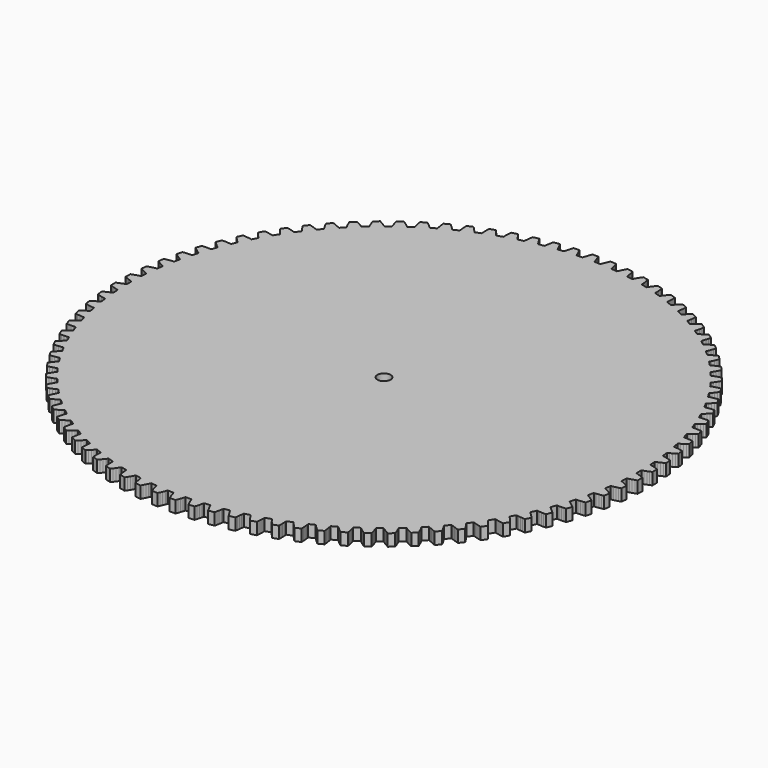
from build123d import *

# Parameters (mm, degrees)
F0_R     = 5
F1_DEPTH = 9


with BuildPart() as f1:
    # F0 (on Top) → F1 (new body)
    with BuildSketch(Plane.XY):
        Polygon((83.623727, 84.245683), (83.630127, 88.804583), (84.041127, 88.937583), (84.452027, 89.073883), (85.273427, 89.356283), (86.914527, 89.958683), (88.553027, 90.609183), (90.188527, 91.305483), (90.041027, 95.706583), (88.362527, 96.291783), (86.684127, 96.831083), (85.006427, 97.322283), (84.167927, 97.548983), (83.748827, 97.657483), (83.329827, 97.762583), (83.018127, 102.310883), (83.418927, 102.472183), (83.819327, 102.636783), (84.619027, 102.975783), (86.214027, 103.691283), (87.803127, 104.454383), (89.386127, 105.263083), (88.931927, 109.643283), (87.216727, 110.109983), (85.504827, 110.530783), (83.796927, 110.903783), (82.944627, 111.071483), (82.519027, 111.150483), (82.093727, 111.226083), (81.465527, 115.741483), (81.854027, 115.930383), (82.242027, 116.122583), (83.016127, 116.516483), (84.557327, 117.341483), (86.089327, 118.213683), (87.612027, 119.130783), (86.853427, 123.468583), (85.109827, 123.814483), (83.372727, 124.114883), (81.643027, 124.367783), (80.781127, 124.475683), (80.351027, 124.524783), (79.921427, 124.570583), (78.979827, 129.031183), (79.354227, 129.246683), (79.727827, 129.465383), (80.472527, 129.912383), (81.952527, 130.842883), (83.419927, 131.819783), (84.874927, 132.840883), (83.815627, 137.115183), (82.052127, 137.338683), (80.298327, 137.517183), (78.555127, 137.648783), (77.687827, 137.696283), (77.255327, 137.715283), (76.823627, 137.730983), (75.573127, 142.114983), (75.931527, 142.356183), (76.289027, 142.600383), (77.000727, 143.098283), (78.412227, 144.129683), (79.807927, 145.206583), (81.188127, 146.326783), (79.833227, 150.516783), (78.058427, 150.616583), (76.296427, 150.672383), (74.548327, 150.682083), (73.679827, 150.668883), (73.247027, 150.657683), (72.815327, 150.643283), (71.262027, 154.929383), (71.602827, 155.194883), (71.942327, 155.463583), (72.617627, 156.009783), (73.953627, 157.137183), (75.270827, 158.308883), (76.569627, 159.522583), (74.925727, 163.607783), (73.148227, 163.583683), (71.386627, 163.516383), (69.642127, 163.404083), (68.776627, 163.330383), (68.345727, 163.288983), (67.916027, 163.244483), (66.067627, 167.411783), (66.389027, 167.700483), (66.708927, 167.992083), (67.344427, 168.584183), (68.598627, 169.801983), (69.830927, 171.062683), (71.041827, 172.363983), (69.116927, 176.324683), (67.345527, 176.176583), (65.592927, 175.986583), (63.860427, 175.752883), (63.002227, 175.618983), (62.575227, 175.547583), (62.149727, 175.473283), (60.015027, 179.501483), (60.315527, 179.811883), (60.614327, 180.125083), (61.207027, 180.760083), (62.373227, 182.062383), (63.514527, 183.405983), (64.631727, 184.788583), (62.435227, 188.605283), (60.678427, 188.333983), (58.943427, 188.022183), (57.231427, 187.668283), (56.384627, 187.474783), (55.963627, 187.373883), (55.544327, 187.269983), (53.133927, 191.139483), (53.412027, 191.470083), (53.688227, 191.803383), (54.235227, 192.478183), (55.307627, 193.858683), (56.352527, 195.278583), (57.370527, 196.735783), (54.913127, 200.389983), (53.179627, 199.996783), (51.470527, 199.564683), (49.787427, 199.092183), (48.956127, 198.840183), (48.543227, 198.710083), (48.132227, 198.577183), (45.457727, 202.269183), (45.712127, 202.618283), (45.964427, 202.970083), (46.462927, 203.681383), (47.436527, 205.133383), (48.379727, 206.622683), (49.293627, 208.147283), (46.587327, 211.621183), (44.885427, 211.108083), (43.210627, 210.557783), (41.564627, 209.969083), (40.753027, 209.659583), (40.350127, 209.501083), (39.949327, 209.339883), (37.023827, 212.836183), (37.253227, 213.202283), (37.480427, 213.570883), (37.928127, 214.315183), (38.798027, 215.831483), (39.635027, 217.382983), (40.440327, 218.967683), (37.498327, 222.244283), (35.836427, 221.613683), (34.204027, 220.947983), (32.603127, 220.245783), (31.815027, 219.880483), (31.424227, 219.694283), (31.035727, 219.505483), (27.873427, 222.789283), (28.076727, 223.170383), (28.277627, 223.553883), (28.672327, 224.327683), (29.434327, 225.900983), (30.161127, 227.507083), (30.853927, 229.144083), (27.690527, 232.207483), (26.076527, 231.462483), (24.494627, 230.684583), (22.946527, 229.872383), (22.185927, 229.453083), (21.809027, 229.239983), (21.434627, 229.024483), (18.051027, 232.079783), (18.227227, 232.474183), (18.400827, 232.870683), (18.740627, 233.670083), (19.391027, 235.292783), (20.004027, 236.945683), (20.580927, 238.626983), (17.211527, 241.462283), (15.653527, 240.606483), (14.129727, 239.720083), (12.642027, 238.801983), (11.912527, 238.330583), (11.551427, 238.091683), (11.192927, 237.850683), (7.604427, 240.662383), (7.752627, 241.068183), (7.898227, 241.475883), (8.181427, 242.296983), (8.717027, 243.961083), (9.213227, 245.652683), (9.671427, 247.370183), (6.112427, 249.963583), (4.617927, 249.001183), (3.159727, 248.010583), (1.739727, 246.990983), (1.044827, 246.469783), (0.701327, 246.206283), (0.360527, 245.940883), (-3.415473, 248.495483), (-3.295873, 248.910583), (-3.179073, 249.327483), (-2.953873, 250.166283), (-2.535573, 251.863683), (-2.158673, 253.585783), (-1.821273, 255.331083), (-5.552573, 257.669883), (-6.976273, 256.605583), (-8.361873, 255.515683), (-9.707273, 254.399483), (-10.364173, 253.831083), (-10.688473, 253.544383), (-11.009873, 253.255783), (-14.954873, 255.540683), (-14.864473, 255.963183), (-14.777073, 256.387183), (-14.610873, 257.239683), (-14.312073, 258.962183), (-14.056173, 260.706383), (-13.841473, 262.470883), (-17.726673, 264.543683), (-19.072773, 263.382683), (-20.378973, 262.198783), (-21.643173, 260.991483), (-22.258773, 260.378683), (-22.562273, 260.069983), (-22.862873, 259.759683), (-26.957573, 261.763883), (-26.896873, 262.191583), (-26.839273, 262.620683), (-26.732973, 263.482683), (-26.555073, 265.221783), (-26.421473, 266.979583), (-26.330273, 268.754883), (-30.350673, 270.551583), (-31.612473, 269.299483), (-32.832973, 268.027383), (-34.009873, 266.734783), (-34.581173, 266.080583), (-34.862473, 265.751383), (-35.140673, 265.420883), (-39.365173, 267.134583), (-39.334473, 267.565483), (-39.306973, 267.997583), (-39.261073, 268.864883), (-39.204873, 270.612183), (-39.194173, 272.374983), (-39.227073, 274.152283), (-43.363073, 275.664183), (-44.534373, 274.327183), (-45.663173, 272.972983), (-46.747073, 271.601483), (-47.271373, 270.908983), (-47.528973, 270.560983), (-47.783373, 270.211883), (-52.117173, 271.626683), (-52.116673, 272.058683), (-52.119273, 272.491683), (-52.134073, 273.360083), (-52.199873, 275.106983), (-52.312173, 276.866283), (-52.468973, 278.636983), (-56.700273, 279.856683), (-57.775573, 278.441183), (-58.807073, 277.011583), (-59.792673, 275.567783), (-60.267373, 274.840383), (-60.500073, 274.475283), (-60.729573, 274.109283), (-65.151473, 275.218383), (-65.181073, 275.649383), (-65.213973, 276.080983), (-65.289273, 276.946383), (-65.476773, 278.684383), (-65.711473, 280.431583), (-65.991473, 282.186983), (-70.297573, 283.108583), (-71.271473, 281.621483), (-72.200773, 280.123483), (-73.083173, 278.614383), (-73.506073, 277.855683), (-73.712673, 277.475283), (-73.916073, 277.094183), (-78.404573, 277.892083), (-78.464173, 278.319883), (-78.527073, 278.748283), (-78.662573, 279.606183), (-78.970873, 281.326983), (-79.326873, 283.053483), (-79.728573, 284.785083), (-84.088573, 285.404083), (-84.956273, 283.852683), (-85.778873, 282.293483), (-86.553873, 280.726483), (-86.922773, 279.940183), (-87.102373, 279.546283), (-87.278673, 279.151883), (-91.811973, 279.634683), (-91.901173, 280.057383), (-91.993873, 280.480283), (-92.188773, 281.326683), (-92.616373, 283.021783), (-93.092073, 284.719283), (-93.613573, 286.418583), (-98.005973, 286.731983), (-98.763473, 285.123783), (-99.475173, 283.510983), (-100.139073, 281.893783), (-100.452173, 281.083583), (-100.603873, 280.678183), (-100.752273, 280.272483), (-105.308173, 280.437883), (-105.426673, 280.853283), (-105.548573, 281.268683), (-105.802173, 282.099483), (-106.346973, 283.760583), (-106.939773, 285.420783), (-107.578573, 287.079583), (-111.982273, 287.085783), (-112.625673, 285.428683), (-113.223173, 283.770183), (-113.772573, 282.110583), (-114.028473, 281.280583), (-114.151473, 280.865483), (-114.271273, 280.450383), (-118.827573, 280.297683), (-118.974773, 280.703783), (-119.125373, 281.109683), (-119.436273, 281.920783), (-120.095573, 283.539783), (-120.802773, 285.154583), (-121.555773, 286.764783), (-125.949073, 286.463783), (-126.475373, 284.765883), (-126.955773, 283.069683), (-127.388073, 281.375883), (-127.585373, 280.529983), (-127.679173, 280.107383), (-127.769673, 279.684883), (-132.304173, 279.214683), (-132.479473, 279.609583), (-132.657973, 280.003983), (-133.024673, 280.791383), (-133.795273, 282.360483), (-134.613473, 283.921983), (-135.476873, 285.475783), (-139.838573, 284.869083), (-140.245073, 283.138583), (-140.605973, 281.413083), (-140.919073, 279.693183), (-141.056973, 278.835583), (-141.120973, 278.407383), (-141.181773, 277.979683), (-145.672473, 277.194383), (-145.874873, 277.575983), (-146.080473, 277.956983), (-146.501173, 278.716883), (-147.379373, 280.228483), (-148.304473, 281.729083), (-149.274273, 283.218883), (-153.582873, 282.309283), (-153.867773, 280.554683), (-154.107373, 278.808183), (-154.299773, 277.070683), (-154.377473, 276.205483), (-154.411473, 275.773983), (-154.442273, 275.343083), (-158.867273, 274.246383), (-159.095773, 274.612983), (-159.327473, 274.978683), (-159.800173, 275.707383), (-160.781673, 277.153983), (-161.809173, 278.586483), (-162.880473, 280.004883), (-167.115273, 278.797083), (-167.276973, 277.026883), (-167.394173, 275.267883), (-167.464873, 273.521083), (-167.482073, 272.652683), (-167.485973, 272.219783), (-167.486573, 271.787783), (-171.824273, 270.385083), (-172.077773, 270.734883), (-172.334373, 271.083583), (-172.856773, 271.777483), (-173.936873, 273.152083), (-175.061773, 274.509383), (-176.229473, 275.849683), (-180.369573, 274.349383), (-180.407473, 272.572183), (-180.401673, 270.809283), (-180.350373, 269.061883), (-180.306973, 268.194383), (-180.280573, 267.762283), (-180.251073, 267.331283), (-184.480373, 265.629383), (-184.757673, 265.960683), (-185.037973, 266.290583), (-185.607473, 266.946483), (-186.780873, 268.242383), (-187.997673, 269.517883), (-189.255973, 270.773483), (-193.281373, 268.987983), (-193.195273, 267.212483), (-193.066473, 265.454283), (-192.893473, 263.714683), (-192.789573, 262.852383), (-192.733173, 262.423183), (-192.673673, 261.995283), (-196.773973, 260.002483), (-197.073673, 260.313583), (-197.376273, 260.623183), (-197.990173, 261.237683), (-199.251073, 262.448583), (-200.553973, 263.636083), (-201.896773, 264.800883), (-205.787773, 262.738883), (-205.577973, 260.973783), (-205.326873, 259.228883), (-205.032873, 257.505583), (-204.869173, 256.652583), (-204.782873, 256.228383), (-204.693773, 255.805683), (-208.644973, 253.531683), (-208.965673, 253.821183), (-209.289173, 254.108883), (-209.944473, 254.679083), (-211.286673, 255.799083), (-212.669273, 256.892783), (-214.090073, 257.961083), (-217.827773, 255.632683), (-217.495373, 253.886483), (-217.123173, 252.163383), (-216.709673, 250.464783), (-216.486773, 249.625283), (-216.371173, 249.208083), (-216.252773, 248.792583), (-220.035773, 246.248583), (-220.375873, 246.514983), (-220.718673, 246.779483), (-221.412073, 247.302483), (-222.829173, 248.326183), (-224.284673, 249.320783), (-225.776573, 250.287383), (-229.342773, 247.703883), (-228.889273, 245.985183), (-228.397873, 244.292183), (-227.866873, 242.626583), (-227.585973, 241.804683), (-227.441573, 241.396583), (-227.294473, 240.990383), (-230.890773, 238.188683), (-231.248573, 238.430683), (-231.608973, 238.670583), (-232.337273, 239.143983), (-233.822273, 240.066283), (-235.343673, 240.956983), (-236.899273, 241.817083), (-240.276573, 238.991183), (-239.704373, 237.308283), (-239.095973, 235.653683), (-238.450073, 234.029183), (-238.112573, 233.228883), (-237.940073, 232.831883), (-237.764973, 232.436883), (-241.157073, 229.391183), (-241.530973, 229.607683), (-241.907173, 229.821783), (-242.666673, 230.243283), (-244.212473, 231.059683), (-245.792173, 231.842083), (-247.404073, 232.591583), (-250.575973, 229.537083), (-249.887773, 227.898083), (-249.165473, 226.289983), (-248.407873, 224.714483), (-248.015273, 223.939683), (-247.815473, 223.555683), (-247.613273, 223.173883), (-250.784673, 219.898983), (-251.172773, 220.088783), (-251.562973, 220.276183), (-252.350073, 220.643683), (-253.949073, 221.350283), (-255.579473, 222.020583), (-257.239673, 222.655883), (-260.190873, 219.387483), (-259.389973, 217.800483), (-258.557273, 216.246683), (-257.691573, 214.727883), (-257.245973, 213.982383), (-257.019873, 213.613183), (-256.791473, 213.246483), (-259.726773, 209.758283), (-260.127073, 209.920583), (-260.529473, 210.080283), (-261.340173, 210.391983), (-262.984573, 210.985383), (-264.657873, 211.540283), (-266.358273, 212.058183), (-269.074273, 208.591883), (-268.164673, 207.064683), (-267.225573, 205.572683), (-266.256073, 204.117983), (-265.759473, 203.405383), (-265.508173, 203.052883), (-265.254773, 202.702983), (-267.939573, 199.018483), (-268.350273, 199.152483), (-268.762873, 199.283783), (-269.593373, 199.538183), (-271.275073, 200.015383), (-272.982973, 200.452183), (-274.715473, 200.850183), (-277.182973, 197.202883), (-276.169073, 195.742883), (-275.128173, 194.320083), (-274.059573, 192.936583), (-273.514573, 192.260283), (-273.239273, 191.926183), (-272.962073, 191.594783), (-275.383273, 187.731983), (-275.802273, 187.837083), (-276.222973, 187.939183), (-277.069273, 188.134983), (-278.780173, 188.493783), (-280.514373, 188.810383), (-282.270373, 189.086583), (-284.477573, 185.276083), (-283.364173, 183.890283), (-282.226673, 182.543583), (-281.064073, 181.237983), (-280.473173, 180.601383), (-280.175273, 180.287283), (-279.875673, 179.976083), (-282.021573, 175.953783), (-282.446873, 176.029383), (-282.873673, 176.101883), (-283.731473, 176.238183), (-285.463273, 176.476683), (-287.215373, 176.671583), (-288.986373, 176.824683), (-290.922273, 172.869383), (-289.715073, 171.564683), (-288.486273, 170.300583), (-287.235573, 169.079283), (-286.601673, 168.485383), (-286.282573, 168.192883), (-285.961973, 167.903283), (-287.821973, 163.741183), (-288.251573, 163.786883), (-288.682373, 163.829483), (-289.547673, 163.905583), (-291.291873, 164.022783), (-293.053273, 164.094983), (-294.830573, 164.124083), (-296.485973, 160.043383), (-295.190573, 158.826083), (-293.876673, 157.650783), (-292.543773, 156.519683), (-291.869973, 155.971483), (-291.531273, 155.701983), (-291.191273, 155.435483), (-292.756473, 151.153683), (-293.188173, 151.169283), (-293.620873, 151.181783), (-294.489373, 151.197383), (-296.237473, 151.192583), (-297.999673, 151.141683), (-299.774673, 151.046783), (-301.141373, 146.860583), (-299.764173, 145.736583), (-298.371473, 144.655783), (-296.962973, 143.620383), (-296.252573, 143.120583), (-295.895873, 142.875283), (-295.538073, 142.633183), (-296.800773, 138.252683), (-297.232573, 138.238183), (-297.665073, 138.220383), (-298.532573, 138.175383), (-300.276073, 138.048583), (-302.030373, 137.874983), (-303.794473, 137.656383), (-304.865773, 133.385083), (-303.413673, 132.359883), (-301.948873, 131.378883), (-300.471573, 130.444283), (-299.728073, 129.995283), (-299.355073, 129.775483), (-298.981273, 129.558883), (-299.935373, 125.100983), (-300.365073, 125.056383), (-300.795273, 125.008483), (-301.657473, 124.902983), (-303.387973, 124.654983), (-305.125873, 124.359383), (-306.870473, 124.018283), (-307.641173, 119.682683), (-306.121073, 118.761283), (-304.591473, 117.884783), (-303.052473, 117.055583), (-302.279473, 116.659483), (-301.892073, 116.466183), (-301.504073, 116.276183), (-302.144873, 111.762583), (-302.570373, 111.688083), (-302.996273, 111.610383), (-303.848973, 111.444983), (-305.557973, 111.076883), (-307.271073, 110.660783), (-308.987573, 110.198883), (-309.453973, 105.819983), (-307.873273, 105.006883), (-306.286273, 104.239283), (-304.693173, 103.519383), (-303.894473, 103.178183), (-303.494573, 103.012383), (-303.094273, 102.849983), (-303.418573, 98.302683), (-303.837873, 98.198683), (-304.257273, 98.091383), (-305.096373, 97.866983), (-306.775473, 97.380483), (-308.455373, 96.845883), (-310.135473, 96.265383), (-310.295273, 91.864683), (-308.661773, 91.163783), (-307.025073, 90.508783), (-305.385673, 89.901683), (-304.565073, 89.617083), (-304.154573, 89.479583), (-303.743873, 89.345483), (-303.750273, 84.786583), (-304.161273, 84.653583), (-304.572173, 84.517283), (-305.393573, 84.234883), (-307.034673, 83.632483), (-308.673173, 82.982083), (-310.308673, 82.285683), (-310.161173, 77.884583), (-308.482673, 77.299383), (-306.804273, 76.760083), (-305.126573, 76.268883), (-304.288073, 76.042183), (-303.868973, 75.933683), (-303.449973, 75.828583), (-303.138273, 71.280383), (-303.539073, 71.118983), (-303.939473, 70.954383), (-304.739173, 70.615383), (-306.334173, 69.899983), (-307.923373, 69.136783), (-309.506273, 68.328083), (-309.052073, 63.947983), (-307.336873, 63.481283), (-305.624973, 63.060383), (-303.917073, 62.687383), (-303.064873, 62.519683), (-302.639173, 62.440783), (-302.213873, 62.365083), (-301.585673, 57.849683), (-301.974173, 57.660783), (-302.362173, 57.468583), (-303.136273, 57.074683), (-304.677573, 56.249683), (-306.209573, 55.377583), (-307.732273, 54.460383), (-306.973573, 50.122583), (-305.229973, 49.776683), (-303.492973, 49.476283), (-301.763173, 49.223383), (-300.901273, 49.115483), (-300.471173, 49.066383), (-300.041573, 49.020583), (-299.099973, 44.560083), (-299.474373, 44.344483), (-299.847973, 44.125783), (-300.592673, 43.678783), (-302.072673, 42.748283), (-303.540073, 41.771383), (-304.995173, 40.750283), (-303.935773, 36.475983), (-302.172273, 36.252483), (-300.418473, 36.073983), (-298.675273, 35.942383), (-297.807973, 35.894883), (-297.375473, 35.875883), (-296.943773, 35.860183), (-295.693273, 31.476183), (-296.051773, 31.235083), (-296.409173, 30.990783), (-297.120873, 30.492883), (-298.532373, 29.461483), (-299.928073, 28.384583), (-301.308273, 27.264483), (-299.953373, 23.074483), (-298.178573, 22.974583), (-296.416573, 22.918783), (-294.668473, 22.909083), (-293.799973, 22.922283), (-293.367173, 22.933483), (-292.935473, 22.947883), (-291.382173, 18.661783), (-291.722973, 18.396283), (-292.062473, 18.127683), (-292.737773, 17.581383), (-294.073773, 16.453983), (-295.390973, 15.282383), (-296.689773, 14.068683), (-295.045873, 9.983383), (-293.268473, 10.007583), (-291.506873, 10.074783), (-289.762273, 10.187083), (-288.896873, 10.260783), (-288.465873, 10.302183), (-288.036173, 10.346683), (-286.187773, 6.179383), (-286.509173, 5.890683), (-286.829073, 5.599083), (-287.464573, 5.006983), (-288.718773, 3.789183), (-289.951073, 2.528483), (-291.161973, 1.227183), (-289.237073, -2.733417), (-287.465673, -2.585417), (-285.713073, -2.395317), (-283.980573, -2.161717), (-283.122373, -2.027817), (-282.695373, -1.956417), (-282.269873, -1.882017), (-280.135173, -5.910317), (-280.435673, -6.220617), (-280.734473, -6.533917), (-281.327173, -7.168917), (-282.493373, -8.471217), (-283.634673, -9.814817), (-284.751873, -11.197417), (-282.555373, -15.014117), (-280.798673, -14.742817), (-279.063573, -14.431017), (-277.351573, -14.077017), (-276.504773, -13.883617), (-276.083873, -13.782617), (-275.664473, -13.678817), (-273.254073, -17.548317), (-273.532173, -17.878917), (-273.808373, -18.212217), (-274.355373, -18.887017), (-275.427873, -20.267517), (-276.472673, -21.687417), (-277.490673, -23.144617), (-275.033273, -26.798817), (-273.299773, -26.405617), (-271.590673, -25.973517), (-269.907573, -25.501017), (-269.076373, -25.249017), (-268.663473, -25.118917), (-268.252373, -24.986017), (-265.577873, -28.677917), (-265.832273, -29.027117), (-266.084573, -29.378917), (-266.583073, -30.090217), (-267.556673, -31.542217), (-268.499873, -33.031517), (-269.413773, -34.556117), (-266.707473, -38.030017), (-265.005573, -37.516917), (-263.330773, -36.966617), (-261.684773, -36.377817), (-260.873173, -36.068417), (-260.470273, -35.909917), (-260.069573, -35.748617), (-257.143973, -39.245017), (-257.373373, -39.611117), (-257.600573, -39.979617), (-258.048273, -40.723917), (-258.918173, -42.240317), (-259.755273, -43.791817), (-260.560573, -45.376517), (-257.618473, -48.653117), (-255.956573, -48.022517), (-254.324173, -47.356817), (-252.723273, -46.654617), (-251.935173, -46.289317), (-251.544473, -46.103017), (-251.155873, -45.914317), (-247.993573, -49.198117), (-248.196873, -49.579217), (-248.397773, -49.962717), (-248.792473, -50.736417), (-249.554473, -52.309817), (-250.281273, -53.915917), (-250.974073, -55.552917), (-247.810673, -58.616317), (-246.196673, -57.871317), (-244.614773, -57.093317), (-243.066773, -56.281217), (-242.306073, -55.861817), (-241.929273, -55.648817), (-241.554773, -55.433317), (-238.171173, -58.488517), (-238.347373, -58.883017), (-238.520973, -59.279517), (-238.860773, -60.078917), (-239.511173, -61.701617), (-240.124173, -63.354417), (-240.701073, -65.035817), (-237.331673, -67.871117), (-235.773673, -67.015317), (-234.249873, -66.128917), (-232.762173, -65.210717), (-232.032673, -64.739417), (-231.671573, -64.500517), (-231.313073, -64.259517), (-227.724573, -67.071217), (-227.872773, -67.477017), (-228.018373, -67.884717), (-228.301573, -68.705817), (-228.837173, -70.369917), (-229.333373, -72.061517), (-229.791573, -73.779017), (-226.232673, -76.372417), (-224.738073, -75.410017), (-223.279873, -74.419417), (-221.859873, -73.399717), (-221.164973, -72.878617), (-220.821473, -72.615117), (-220.480673, -72.349717), (-216.704773, -74.904317), (-216.824373, -75.319417), (-216.941073, -75.736217), (-217.166273, -76.575117), (-217.584573, -78.272517), (-217.961573, -79.994617), (-218.298873, -81.739917), (-214.567573, -84.078717), (-213.143873, -83.014417), (-211.758273, -81.924517), (-210.412873, -80.808317), (-209.756073, -80.239917), (-209.431773, -79.953117), (-209.110273, -79.664617), (-205.165373, -81.949517), (-205.255673, -82.372017), (-205.343073, -82.796017), (-205.509273, -83.648517), (-205.808073, -85.371017), (-206.063973, -87.115117), (-206.278773, -88.879717), (-202.393473, -90.952517), (-201.047373, -89.791517), (-199.741173, -88.607617), (-198.476973, -87.400217), (-197.861373, -86.787517), (-197.557873, -86.478817), (-197.257273, -86.168517), (-193.162573, -88.172717), (-193.223273, -88.600417), (-193.280873, -89.029517), (-193.387173, -89.891517), (-193.565073, -91.630617), (-193.698773, -93.388417), (-193.789873, -95.163617), (-189.769473, -96.960417), (-188.507673, -95.708317), (-187.287273, -94.436217), (-186.110273, -93.143617), (-185.538973, -92.489317), (-185.257673, -92.160217), (-184.979473, -91.829717), (-180.754973, -93.543417), (-180.785673, -93.974317), (-180.813173, -94.406317), (-180.859073, -95.273717), (-180.915273, -97.021017), (-180.925973, -98.783817), (-180.893073, -100.561117), (-176.757073, -102.073017), (-175.585773, -100.736017), (-174.457073, -99.381817), (-173.373073, -98.010217), (-172.848773, -97.317817), (-172.591173, -96.969817), (-172.336773, -96.620717), (-168.002973, -98.035517), (-168.003473, -98.467517), (-168.000873, -98.900417), (-167.986173, -99.768917), (-167.920273, -101.515817), (-167.807973, -103.275117), (-167.651173, -105.045817), (-163.419873, -106.265517), (-162.344573, -104.850017), (-161.313073, -103.420417), (-160.327473, -101.976617), (-159.852773, -101.249217), (-159.620073, -100.884117), (-159.390573, -100.518117), (-154.968673, -101.627217), (-154.939073, -102.058217), (-154.906173, -102.489817), (-154.830973, -103.355217), (-154.643373, -105.093217), (-154.408673, -106.840417), (-154.128673, -108.595817), (-149.822573, -109.517417), (-148.848673, -108.030317), (-147.919473, -106.532317), (-147.036973, -105.023217), (-146.614073, -104.264517), (-146.407473, -103.884117), (-146.204073, -103.502917), (-141.715573, -104.300917), (-141.655973, -104.728717), (-141.593073, -105.157017), (-141.457673, -106.015017), (-141.149273, -107.735817), (-140.793273, -109.462317), (-140.391573, -111.193917), (-136.031673, -111.812917), (-135.163873, -110.261517), (-134.341373, -108.702317), (-133.566273, -107.135317), (-133.197373, -106.348917), (-133.017773, -105.955017), (-132.841473, -105.560717), (-128.308273, -106.043517), (-128.218973, -106.466217), (-128.126373, -106.889117), (-127.931373, -107.735517), (-127.503773, -109.430617), (-127.028173, -111.128117), (-126.506573, -112.827417), (-122.114173, -113.140717), (-121.356673, -111.532617), (-120.644973, -109.919817), (-119.981073, -108.302617), (-119.667973, -107.492417), (-119.516273, -107.087017), (-119.367873, -106.681217), (-114.811973, -106.846717), (-114.693473, -107.262117), (-114.571573, -107.677517), (-114.317973, -108.508317), (-113.773273, -110.169417), (-113.180373, -111.829617), (-112.541573, -113.488417), (-108.137973, -113.494617), (-107.494473, -111.837517), (-106.896973, -110.179017), (-106.347573, -108.519417), (-106.091673, -107.689417), (-105.968673, -107.274317), (-105.848973, -106.859217), (-101.292573, -106.706517), (-101.145373, -107.112617), (-100.994773, -107.518517), (-100.683973, -108.329617), (-100.024573, -109.948617), (-99.317373, -111.563417), (-98.564373, -113.173617), (-94.171073, -112.872617), (-93.644773, -111.174717), (-93.164473, -109.478517), (-92.732073, -107.784717), (-92.534773, -106.938817), (-92.440973, -106.516217), (-92.350473, -106.093717), (-87.815973, -105.623517), (-87.640773, -106.018417), (-87.462273, -106.412817), (-87.095573, -107.200217), (-86.324873, -108.769317), (-85.506673, -110.330817), (-84.643273, -111.884617), (-80.281673, -111.277817), (-79.875073, -109.547417), (-79.514173, -107.821817), (-79.201073, -106.101917), (-79.063273, -105.244417), (-78.999173, -104.816217), (-78.938373, -104.388517), (-74.447673, -103.603117), (-74.245373, -103.984817), (-74.039773, -104.365817), (-73.618973, -105.125717), (-72.740773, -106.637217), (-71.815673, -108.137917), (-70.845973, -109.627617), (-66.537273, -108.718117), (-66.252373, -106.963517), (-66.012773, -105.217017), (-65.820373, -103.479417), (-65.742673, -102.614317), (-65.708673, -102.182717), (-65.677873, -101.751817), (-61.252873, -100.655117), (-61.024373, -101.021817), (-60.792773, -101.387517), (-60.320073, -102.116217), (-59.338473, -103.562817), (-58.310973, -104.995217), (-57.239673, -106.413717), (-53.004973, -105.205817), (-52.843173, -103.435617), (-52.725973, -101.676717), (-52.655273, -99.929917), (-52.638073, -99.061517), (-52.634273, -98.628617), (-52.633573, -98.196617), (-48.295873, -96.793917), (-48.042373, -97.143717), (-47.785773, -97.492417), (-47.263373, -98.186317), (-46.183273, -99.560917), (-45.058373, -100.918217), (-43.890773, -102.258517), (-39.750573, -100.758217), (-39.712673, -98.981017), (-39.718473, -97.218117), (-39.769773, -95.470717), (-39.813273, -94.603217), (-39.839573, -94.171117), (-39.869073, -93.740117), (-35.639773, -92.038217), (-35.362473, -92.369517), (-35.082173, -92.699417), (-34.512673, -93.355217), (-33.339273, -94.651117), (-32.122473, -95.926717), (-30.864173, -97.182217), (-26.838773, -95.396817), (-26.924973, -93.621317), (-27.053673, -91.863117), (-27.226773, -90.123517), (-27.330573, -89.261217), (-27.387073, -88.831917), (-27.446473, -88.404117), (-23.346173, -86.411317), (-23.046473, -86.722417), (-22.743873, -87.032017), (-22.129973, -87.646517), (-20.869173, -88.857417), (-19.566273, -90.044917), (-18.223473, -91.209717), (-14.332373, -89.147717), (-14.542173, -87.382617), (-14.793273, -85.637717), (-15.087273, -83.914417), (-15.251073, -83.061417), (-15.337273, -82.637117), (-15.426473, -82.214417), (-11.475173, -79.940517), (-11.154473, -80.230017), (-10.830973, -80.517717), (-10.175673, -81.087917), (-8.833473, -82.207917), (-7.450873, -83.301617), (-6.030073, -84.369817), (-2.292373, -82.041517), (-2.624773, -80.295317), (-2.996973, -78.572117), (-3.410473, -76.873617), (-3.633373, -76.034117), (-3.748973, -75.616917), (-3.867373, -75.201417), (-0.084373, -72.657417), (0.255727, -72.923817), (0.598527, -73.188217), (1.291927, -73.711317), (2.709027, -74.735017), (4.164527, -75.729617), (5.656327, -76.696117), (9.222627, -74.112717), (8.769127, -72.394017), (8.277727, -70.701017), (7.746727, -69.035417), (7.465827, -68.213517), (7.321427, -67.805417), (7.174227, -67.399217), (10.770627, -64.597517), (11.128427, -64.839517), (11.488827, -65.079417), (12.217027, -65.552817), (13.702127, -66.475117), (15.223427, -67.365817), (16.779127, -68.225917), (20.156427, -65.400017), (19.584227, -63.717117), (18.975827, -62.062517), (18.329927, -60.438017), (17.992427, -59.637717), (17.819827, -59.240617), (17.644727, -58.845717), (21.036927, -55.800017), (21.410827, -56.016417), (21.787027, -56.230617), (22.546527, -56.652117), (24.092327, -57.468517), (25.672027, -58.250917), (27.283827, -59.000417), (30.455827, -55.945817), (29.767627, -54.306917), (29.045327, -52.698817), (28.287727, -51.123317), (27.895127, -50.348517), (27.695327, -49.964517), (27.493127, -49.582717), (30.664527, -46.307817), (31.052627, -46.497617), (31.442827, -46.685017), (32.229927, -47.052517), (33.828827, -47.759117), (35.459327, -48.429417), (37.119527, -49.064617), (40.070727, -45.796217), (39.269827, -44.209317), (38.437127, -42.655517), (37.571427, -41.136717), (37.125827, -40.391217), (36.899627, -40.022017), (36.671327, -39.655317), (39.606527, -36.167117), (40.006927, -36.329417), (40.409327, -36.489117), (41.220027, -36.800817), (42.864427, -37.394217), (44.537727, -37.949117), (46.238127, -38.467017), (48.954127, -35.000717), (48.044527, -33.473417), (47.105427, -31.981517), (46.135927, -30.526817), (45.639327, -29.814217), (45.388027, -29.461717), (45.134627, -29.111817), (47.819427, -25.427317), (48.230127, -25.561317), (48.642627, -25.692617), (49.473127, -25.946917), (51.154927, -26.424217), (52.862827, -26.861017), (54.595327, -27.259017), (57.062827, -23.611717), (56.048927, -22.151717), (55.008027, -20.728917), (53.939427, -19.345317), (53.394327, -18.669117), (53.119027, -18.335017), (52.841927, -18.003617), (55.263127, -14.140817), (55.682127, -14.245917), (56.102827, -14.348017), (56.949127, -14.543817), (58.660027, -14.902617), (60.394227, -15.219217), (62.150227, -15.495417), (64.357327, -11.684817), (63.244027, -10.299117), (62.106527, -8.952417), (60.943927, -7.646817), (60.353027, -7.010217), (60.055127, -6.696117), (59.755527, -6.384817), (61.901327, -2.362617), (62.326727, -2.438117), (62.753527, -2.510717), (63.611327, -2.647017), (65.343127, -2.885517), (67.095227, -3.080417), (68.866227, -3.233417), (70.802127, 0.721783), (69.594827, 2.026483), (68.366127, 3.290583), (67.115327, 4.511883), (66.481527, 5.105783), (66.162327, 5.398283), (65.841727, 5.687883), (67.701827, 9.849983), (68.131427, 9.804283), (68.562227, 9.761683), (69.427527, 9.685583), (71.171727, 9.568483), (72.933127, 9.496183), (74.710427, 9.467083), (76.365827, 13.547783), (75.070427, 14.765083), (73.756527, 15.940383), (72.423627, 17.071483), (71.749827, 17.619683), (71.411127, 17.889283), (71.071027, 18.155683), (72.636327, 22.437483), (73.068027, 22.421883), (73.500727, 22.409383), (74.369227, 22.393783), (76.117327, 22.398683), (77.879527, 22.449483), (79.654527, 22.544383), (81.021127, 26.730583), (79.644027, 27.854583), (78.251327, 28.935383), (76.842827, 29.970783), (76.132427, 30.470583), (75.775727, 30.715883), (75.417927, 30.957983), (76.680627, 35.338483), (77.112427, 35.353083), (77.544927, 35.370783), (78.412327, 35.415883), (80.155927, 35.542583), (81.910227, 35.716183), (83.674327, 35.934783), (84.745627, 40.206083), (83.293427, 41.231283), (81.828727, 42.212283), (80.351427, 43.146883), (79.607927, 43.595883), (79.234927, 43.815783), (78.861127, 44.032283), (79.815227, 48.490183), (80.244927, 48.534883), (80.675127, 48.582783), (81.537327, 48.688183), (83.267827, 48.936283), (85.005727, 49.231783), (86.750227, 49.572883), (87.521027, 53.908483), (86.000827, 54.829883), (84.471327, 55.706383), (82.932327, 56.535583), (82.159327, 56.931683), (81.771927, 57.124983), (81.383927, 57.314983), (82.024727, 61.828583), (82.450227, 61.903083), (82.876127, 61.980883), (83.728827, 62.146183), (85.437827, 62.514383), (87.150827, 62.930483), (88.867427, 63.392383), (89.333827, 67.771183), (87.753127, 68.584283), (86.166127, 69.351883), (84.573027, 70.071783), (83.774327, 70.412983), (83.374327, 70.578783), (82.974027, 70.741183), (83.298427, 75.288583), (83.717727, 75.392483), (84.137127, 75.499883), (84.976227, 75.724283), (86.655327, 76.210683), (88.335227, 76.745283), (90.015327, 77.325783), (90.175127, 81.726583), (88.541627, 82.427383), (86.904927, 83.082483), (85.265527, 83.689483), (84.444927, 83.974183), (84.034427, 84.111583), align=None)
        with Locations((-110.060073, 86.795583)):
            Circle(F0_R, mode=Mode.SUBTRACT)
    extrude(amount=F1_DEPTH)


solid = f1.part
